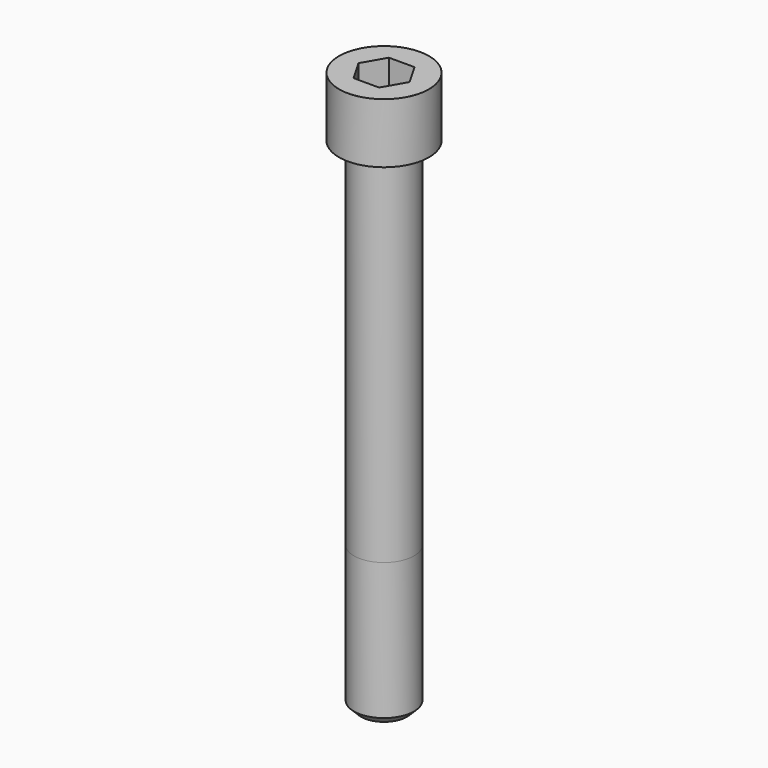
from build123d import *

# Parameters (mm, degrees)
POCKET_DEPTH = 22.15


with BuildPart() as part:
    # Sketch → Revolve (revolve)
    with BuildSketch(Plane.YZ):
        with BuildLine():
            Line((14.999, 0), (22.5, 0))
            Line((22.5, 0), (22.5, 29.97229))
            ThreePointArc((22.5, 29.97229), (22.491884, 29.991884), (22.47229, 30))
            Line((22.47229, 30), (0, 30))
            Line((0, -250), (0, 30))
            Line((11.5, -250), (0, -250))
            Line((15, -246.5), (11.5, -250))
            Line((15, -178), (15, -246.5))
            Line((14.999, 0), (15, -178))
        make_face()
    revolve(axis=Axis((0, 0, 0), (0, 0, 1)))

    # Sketch001 → Pocket (cut)
    with BuildSketch(Plane.XY.offset(30)):
        Polygon((12.788308, 0), (6.394154, 11.075), (-6.394154, 11.075), (-12.788308, 0), (-6.394154, -11.075), (6.394154, -11.075), align=None)
    extrude(amount=-POCKET_DEPTH, mode=Mode.SUBTRACT)


solid = part.part
